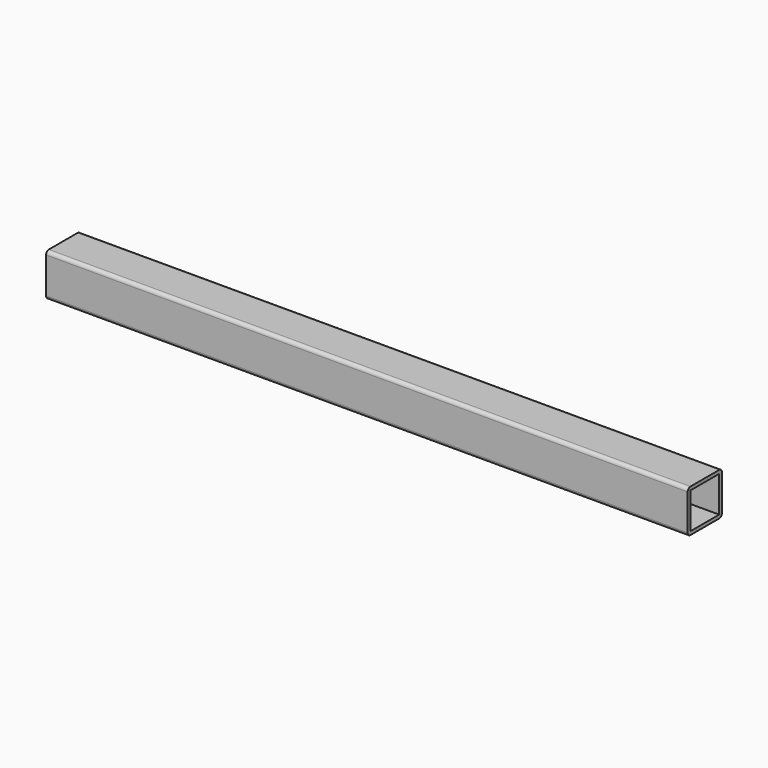
from build123d import *

# Parameters (mm, degrees)
F0_W     = 42
F0_H     = 42
F1_DEPTH = 375


with BuildPart() as f1:
    # F0 (on Right) → F1 (new body, symmetric)
    with BuildSketch(Plane.YZ):
        with BuildLine():
            Line((21, 25), (-21, 25))
            ThreePointArc((-21, 25), (-23.828427, 23.828427), (-25, 21))
            Line((-25, 21), (-25, -21))
            ThreePointArc((-25, -21), (-23.828427, -23.828427), (-21, -25))
            Line((-21, -25), (21, -25))
            ThreePointArc((21, -25), (23.828427, -23.828427), (25, -21))
            Line((25, -21), (25, 21))
            ThreePointArc((25, 21), (23.828427, 23.828427), (21, 25))
        make_face()
        Rectangle(F0_W, F0_H, mode=Mode.SUBTRACT)
    extrude(amount=F1_DEPTH, both=True)


solid = f1.part
